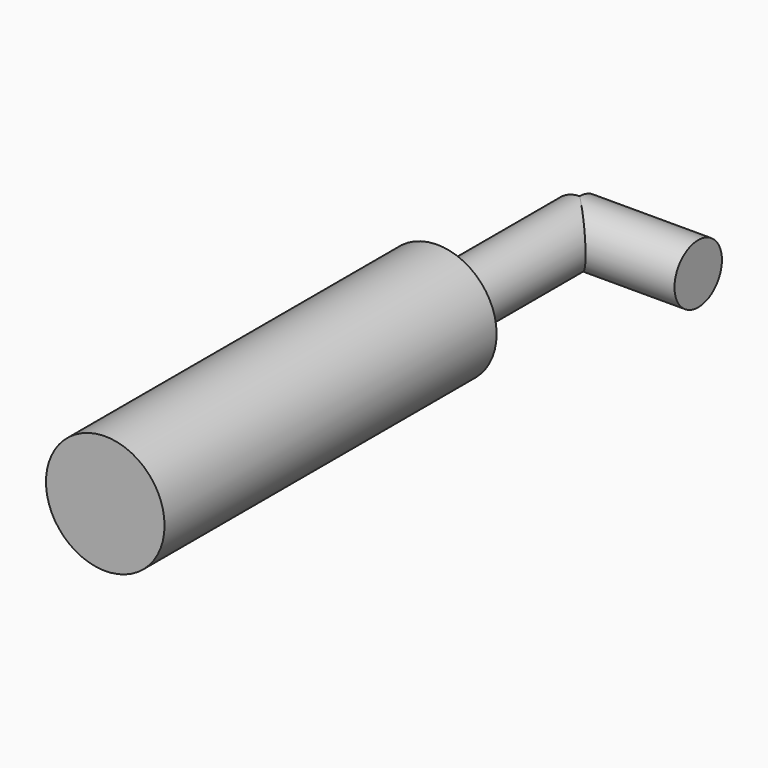
from build123d import *

# Parameters (mm, degrees)
F0_R     = 12.7
F1_DEPTH = 88.9
F2_R     = 6.35
F3_DEPTH = 38.1
F4_R     = 6.35
F5_DEPTH = 25.4


with BuildPart() as f1:
    # F0 (on Front) → F1 (new body)
    with BuildSketch(Plane.XZ):
        Circle(F0_R)
    extrude(amount=-F1_DEPTH)

    # F2 (on face) → F3 (join)
    with BuildSketch(Plane(origin=(0, 88.9, 0), x_dir=(-1, 0, 0), z_dir=(0, 1, 0))):
        Circle(F2_R)
    extrude(amount=F3_DEPTH)

    # F4 (on Right) → F5 (join)
    with BuildSketch(Plane.YZ):
        with Locations((127, 0)):
            Circle(F4_R)
    extrude(amount=F5_DEPTH)


solid = f1.part
